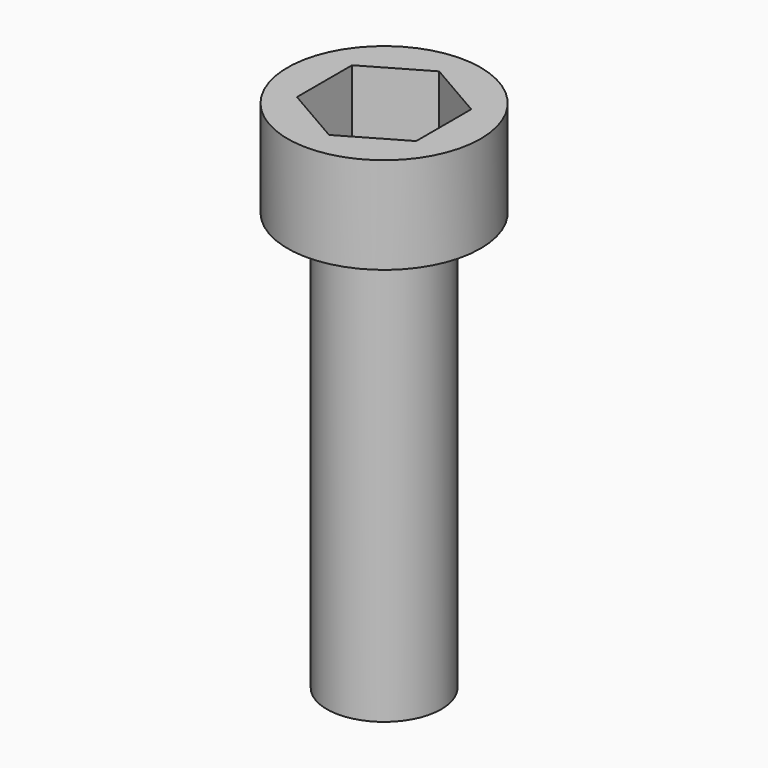
from build123d import *

# Parameters (mm, degrees)
F3_DEPTH = 1.27


with BuildPart() as f1:
    # F0 (on Front) → F1 (revolve)
    with BuildSketch(Plane.XZ):
        Polygon((1.905, 2.352728), (0, 2.352728), (0, -7.807272), (1.1303, -7.807272), (1.1303, 0.447728), (1.905, 0.447728), align=None)
    revolve(axis=Axis((0, 0, -2.727272), (0, 0, -1)))

    # F2 (on face) → F3 (cut)
    with BuildSketch(Plane.XY.offset(2.352728)):
        Polygon((-1.176285, 0.679128), (-1.176285, -0.679128), (0, -1.358256), (1.176285, -0.679128), (1.176285, 0.679128), (0, 1.358256), align=None)
    extrude(amount=-F3_DEPTH, mode=Mode.SUBTRACT)


solid = f1.part
